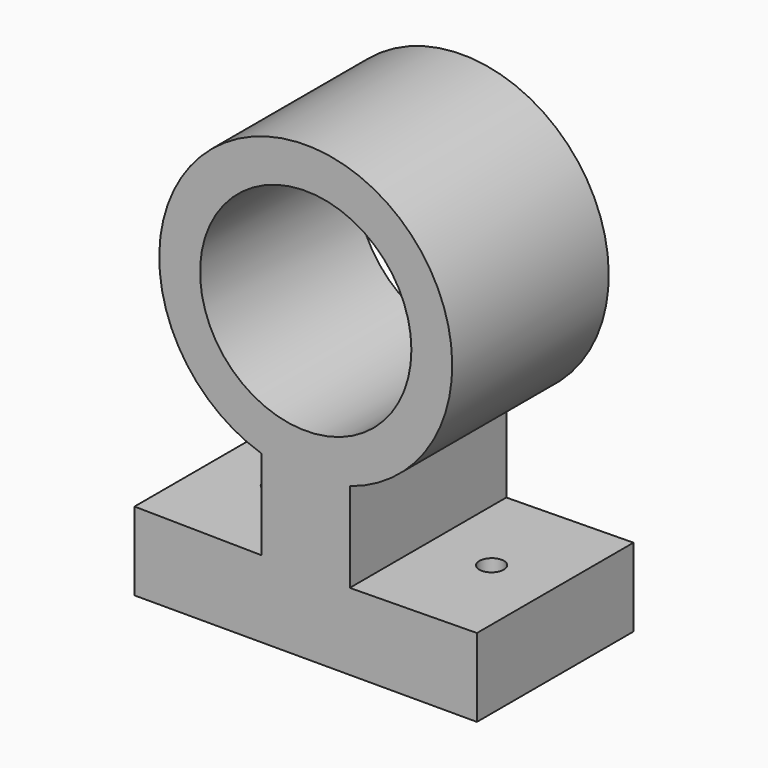
from build123d import *

# Parameters (mm, degrees)
F0_R     = 13.716
F1_DEPTH = 25.4
F3_R     = 1.5875
F2_R     = 1.5875
F4_DEPTH = 25.4


with BuildPart() as f1:
    # F0 (on Front) → F1 (new body)
    with BuildSketch(Plane.XZ):
        with BuildLine():
            Line((5.715, -29.7924076074), (5.715, -18.172541787))
            ThreePointArc((5.715, -18.172541787), (0, 18.9799369156), (-5.715, -18.172541787))
            Line((-5.715, -18.172541787), (-5.715, -29.7924076074))
            Line((-5.715, -29.7924076074), (-22.225, -29.5853535962))
            Line((-22.225, -29.5853535962), (-22.225, -39.7453535962))
            Line((-22.225, -39.7453535962), (22.225, -39.7453535962))
            Line((22.225, -39.7453535962), (22.225, -29.5853535962))
            Line((22.225, -29.5853535962), (5.715, -29.7924076074))
        make_face()
        Circle(F0_R, mode=Mode.SUBTRACT)
    extrude(amount=F1_DEPTH)

    # F3 (on face) + F2 (on face) → F4 (cut)
    with BuildSketch(Plane(origin=(-0.3744703333, 0, -29.8593838697), x_dir=(0.9999213693, 0, -0.0125401412), z_dir=(0.0125401412, 0, 0.9999213693))):
        with Locations((-13.5965987763, -12.7)):
            Circle(F3_R)
    with BuildSketch(Plane(origin=(0.3744703333, 0, -29.8593838697), x_dir=(0.9999213693, 0, 0.0125401412), z_dir=(-0.0125401412, 0, 0.9999213693))):
        with Locations((13.5965987763, -12.7)):
            Circle(F2_R)
    extrude(amount=-F4_DEPTH, dir=(0.0125401412, 0, 0.9999213693), mode=Mode.SUBTRACT)


solid = f1.part
